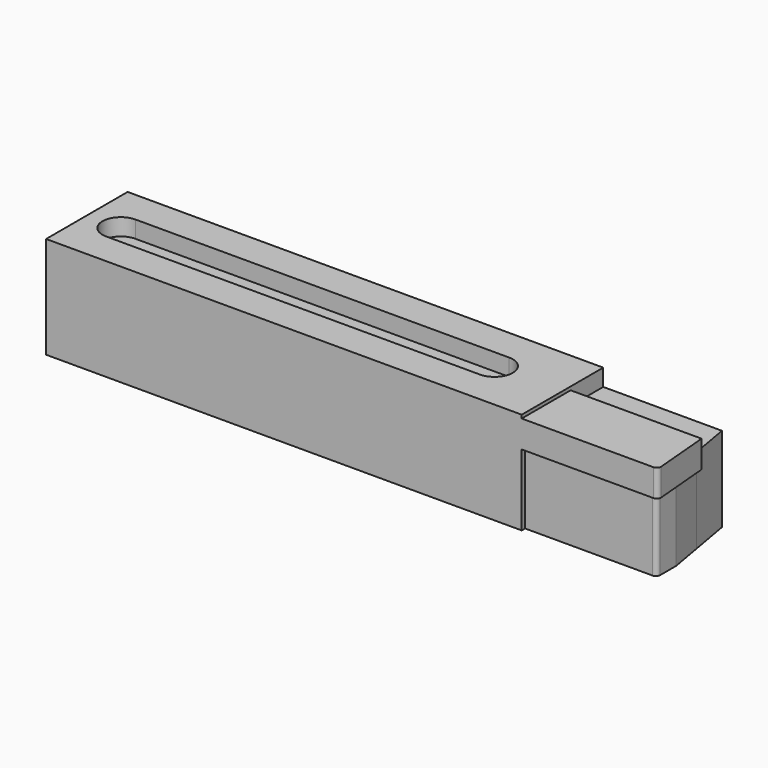
from build123d import *

# Parameters (mm, degrees)
F1_DEPTH = 9.525
F2_START = 6.35
F2_DEPTH = 6.35
F3_START = 3.81
F3_DEPTH = 5.08


with BuildPart() as f1:
    # F0 (on Top) → F1 (new body, symmetric)
    with BuildSketch(Plane.XY):
        Polygon((-57.15, 9.525), (-57.15, -9.525), (31.75, -9.525), (31.75, -8.73125), (31.75, 1.905), (31.75, 9.525), align=None)
        with BuildLine():
            ThreePointArc((-50.8, -3.429), (-54.229, 0), (-50.8, 3.429))
            Line((-50.8, 3.429), (19.05, 3.429))
            ThreePointArc((19.05, 3.429), (21.4746691527, 2.4246691527), (22.479, 0))
            ThreePointArc((22.479, 0), (21.4746691527, -2.4246691527), (19.05, -3.429))
            Line((19.05, -3.429), (-50.8, -3.429))
        make_face(mode=Mode.SUBTRACT)
        with BuildLine():
            Line((31.75, 1.905), (31.75, -8.73125))
            Line((31.75, -8.73125), (55.5625, -8.73125))
            ThreePointArc((55.5625, -8.73125), (56.1237660076, -8.4987660076), (56.35625, -7.9375))
            Line((56.35625, -7.9375), (56.35625, -4.2296700557))
            Line((56.35625, -4.2296700557), (55.2745421514, 1.905))
            Line((55.2745421514, 1.905), (31.75, 1.905))
        make_face()
        Polygon((53.9309305584, 9.525), (31.75, 9.525), (31.75, 1.905), (55.2745421514, 1.905), align=None)
        with BuildLine():
            ThreePointArc((-50.8, -3.429), (-48.3753308473, -2.4246691527), (-47.371, 0))
            ThreePointArc((-47.371, 0), (-48.3753308473, 2.4246691527), (-50.8, 3.429))
            ThreePointArc((-50.8, 3.429), (-54.229, 0), (-50.8, -3.429))
        make_face()
        with BuildLine():
            ThreePointArc((-50.8, 3.429), (-48.3753308473, 2.4246691527), (-47.371, 0))
            ThreePointArc((-47.371, 0), (-48.3753308473, -2.4246691527), (-50.8, -3.429))
            Line((-50.8, -3.429), (19.05, -3.429))
            ThreePointArc((19.05, -3.429), (15.621, 0), (19.05, 3.429))
            Line((19.05, 3.429), (-50.8, 3.429))
        make_face()
        with BuildLine():
            ThreePointArc((22.479, 0), (21.4746691527, 2.4246691527), (19.05, 3.429))
            ThreePointArc((19.05, 3.429), (15.621, 0), (19.05, -3.429))
            ThreePointArc((19.05, -3.429), (21.4746691527, -2.4246691527), (22.479, 0))
        make_face()
    extrude(amount=F1_DEPTH, both=True)

    # F0 (on Top) → F2 (cut)
    with BuildSketch(Plane.XY.offset(F2_START)):
        with BuildLine():
            Line((31.75, 1.905), (31.75, -8.73125))
            Line((31.75, -8.73125), (55.5625, -8.73125))
            ThreePointArc((55.5625, -8.73125), (56.1237660076, -8.4987660076), (56.35625, -7.9375))
            Line((56.35625, -7.9375), (56.35625, -4.2296700557))
            Line((56.35625, -4.2296700557), (55.2745421514, 1.905))
            Line((55.2745421514, 1.905), (31.75, 1.905))
        make_face()
        Polygon((53.9309305584, 9.525), (31.75, 9.525), (31.75, 1.905), (55.2745421514, 1.905), align=None)
        with BuildLine():
            ThreePointArc((-50.8, -3.429), (-48.3753308473, -2.4246691527), (-47.371, 0))
            ThreePointArc((-47.371, 0), (-48.3753308473, 2.4246691527), (-50.8, 3.429))
            ThreePointArc((-50.8, 3.429), (-54.229, 0), (-50.8, -3.429))
        make_face()
        with BuildLine():
            ThreePointArc((-50.8, 3.429), (-48.3753308473, 2.4246691527), (-47.371, 0))
            ThreePointArc((-47.371, 0), (-48.3753308473, -2.4246691527), (-50.8, -3.429))
            Line((-50.8, -3.429), (19.05, -3.429))
            ThreePointArc((19.05, -3.429), (15.621, 0), (19.05, 3.429))
            Line((19.05, 3.429), (-50.8, 3.429))
        make_face()
        with BuildLine():
            ThreePointArc((22.479, 0), (21.4746691527, 2.4246691527), (19.05, 3.429))
            ThreePointArc((19.05, 3.429), (15.621, 0), (19.05, -3.429))
            ThreePointArc((19.05, -3.429), (21.4746691527, -2.4246691527), (22.479, 0))
        make_face()
    extrude(amount=F2_DEPTH, mode=Mode.SUBTRACT)

    # F0 (on Top) → F3 (join)
    with BuildSketch(Plane.XY.offset(F3_START)):
        with BuildLine():
            Line((31.75, -8.73125), (31.75, -9.525))
            Line((31.75, -9.525), (56.35625, -9.525))
            ThreePointArc((56.35625, -9.525), (56.9175160076, -9.2925160076), (57.15, -8.73125))
            Line((57.15, -8.73125), (56.35625, -4.2296700557))
            Line((56.35625, -4.2296700557), (56.35625, -7.9375))
            ThreePointArc((56.35625, -7.9375), (56.1237660076, -8.4987660076), (55.5625, -8.73125))
            Line((55.5625, -8.73125), (31.75, -8.73125))
        make_face()
        with BuildLine():
            Line((31.75, 1.905), (31.75, -8.73125))
            Line((31.75, -8.73125), (55.5625, -8.73125))
            ThreePointArc((55.5625, -8.73125), (56.1237660076, -8.4987660076), (56.35625, -7.9375))
            Line((56.35625, -7.9375), (56.35625, -4.2296700557))
            Line((56.35625, -4.2296700557), (55.2745421514, 1.905))
            Line((55.2745421514, 1.905), (31.75, 1.905))
        make_face()
        Polygon((56.35625, -4.2296700557), (57.15, -8.73125), (56.2194487026, 1.905), (55.2745421514, 1.905), align=None)
    extrude(amount=F3_DEPTH)


solid = f1.part
